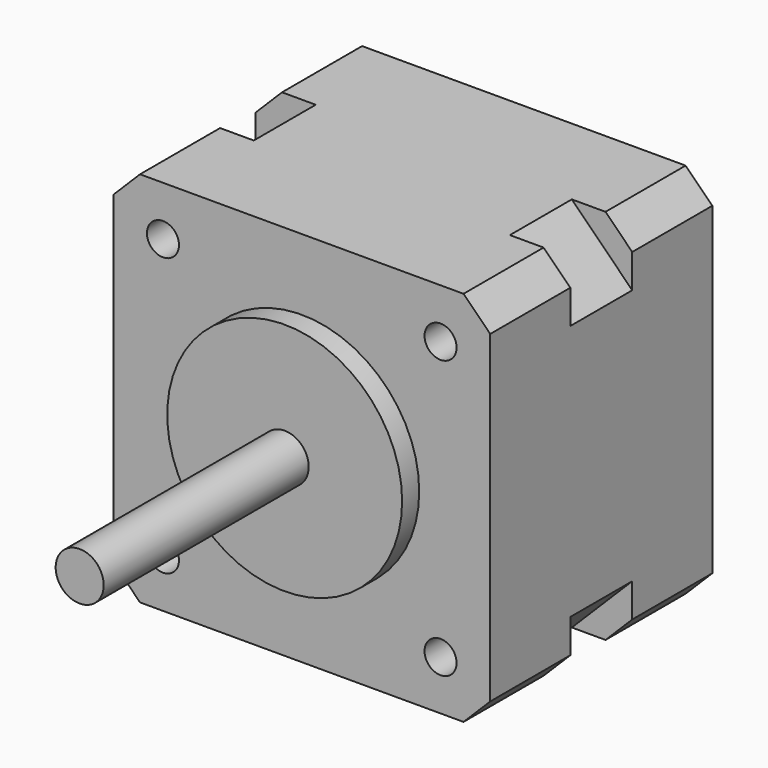
from build123d import *

# Parameters (mm, degrees)
F0_W     = 35.3
F0_H     = 35.3
F0_R     = 1.5
F1_DEPTH = 13
F2_R     = 11
F3_DEPTH = 2
F4_R     = 2.25
F5_DEPTH = 24
F7_DEPTH = 3.625
F8_SIZE  = 2.5


with BuildPart() as f1:
    # F0 (on Front) → F1 (new body, symmetric)
    with BuildSketch(Plane.XZ):
        Rectangle(F0_W, F0_H)
        with Locations((-13, -13)):
            Circle(F0_R, mode=Mode.SUBTRACT)
        with Locations((13, -13)):
            Circle(F0_R, mode=Mode.SUBTRACT)
        with Locations((-13, 13)):
            Circle(F0_R, mode=Mode.SUBTRACT)
        with Locations((13, 13)):
            Circle(F0_R, mode=Mode.SUBTRACT)
    extrude(amount=F1_DEPTH, both=True)

    # F2 (on face) → F3 (join)
    with BuildSketch(Plane.XZ.offset(13)):
        Circle(F2_R)
    extrude(amount=F3_DEPTH)

    # F4 (on face) → F5 (join)
    with BuildSketch(Plane.XZ.offset(15)):
        Circle(F4_R)
    extrude(amount=F5_DEPTH)

    # F6 (on Front) → F7 (cut, symmetric)
    with BuildSketch(Plane.XZ):
        Polygon((17.65, 17.65), (11.9931457505, 17.65), (17.65, 11.9931457505), align=None)
        Polygon((11.9931457505, -17.65), (17.65, -17.65), (17.65, -11.9931457505), align=None)
        Polygon((-17.65, -11.9931457505), (-17.65, -17.65), (-11.9931457505, -17.65), align=None)
        Polygon((-11.9931457505, 17.65), (-17.65, 17.65), (-17.65, 11.9931457505), align=None)
    extrude(amount=F7_DEPTH, both=True, mode=Mode.SUBTRACT)

    # F8
    f8_edges = [f1.edges().sort_by_distance(p)[0] for p in [
        (17.65, -8.3125, 17.65),
        (17.65, 8.3125, 17.65),
        (-17.65, 8.3125, 17.65),
        (-17.65, -8.3125, 17.65),
        (17.65, 8.3125, -17.65),
        (17.65, -8.3125, -17.65),
        (-17.65, -8.3125, -17.65),
        (-17.65, 8.3125, -17.65),
    ]]
    chamfer(f8_edges, length=F8_SIZE)


solid = f1.part
